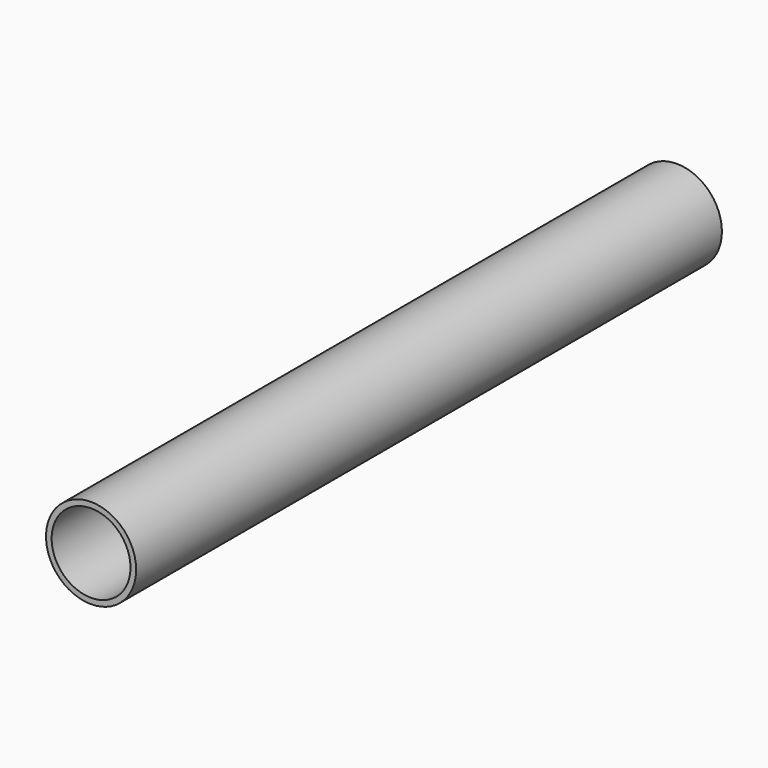
from build123d import *

# Parameters (mm, degrees)
F0_R     = 10
F1_DEPTH = 162.5
F2_T     = -1.25
F3_D     = 17


with BuildPart() as f1:
    # F0 (on Front) → F1 (new body)
    with BuildSketch(Plane.XZ):
        Circle(F0_R)
    extrude(amount=F1_DEPTH)

    # F2
    f2_openings = [f1.faces().sort_by_distance(p)[0] for p in [
        (0, -162.5, 0),
    ]]
    offset(amount=F2_T, openings=f2_openings)

    # F3 (through all)
    with Locations(Plane(origin=(0, 0, 0), x_dir=(1, 0, 0), z_dir=(0, 1, 0))):
        with Locations((0, 0)):
            Hole(F3_D / 2)


solid = f1.part
